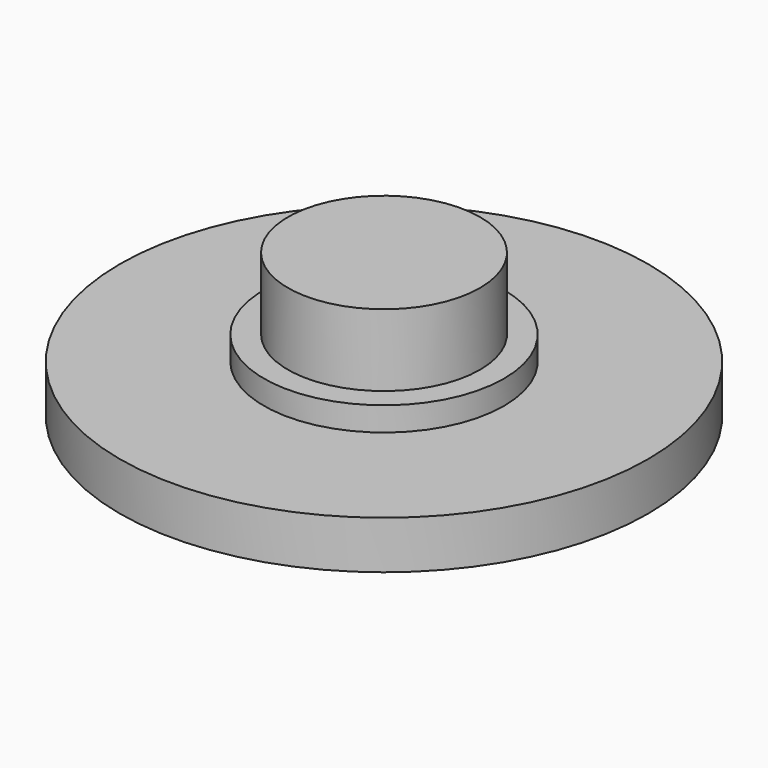
from build123d import *

# Parameters (mm, degrees)
F0_R     = 11
F1_DEPTH = 2
F2_R     = 5
F3_DEPTH = 1
F4_R     = 4
F5_DEPTH = 3


with BuildPart() as f1:
    # F0 (on Top) → F1 (new body)
    with BuildSketch(Plane.XY):
        Circle(F0_R)
        Circle(F0_R)
    extrude(amount=F1_DEPTH)

    # F2 (on face) → F3 (join)
    with BuildSketch(Plane.XY.offset(2)):
        Circle(F2_R)
    extrude(amount=F3_DEPTH)

    # F4 (on face) → F5 (join)
    with BuildSketch(Plane.XY.offset(3)):
        Circle(F4_R)
    extrude(amount=F5_DEPTH)


solid = f1.part
